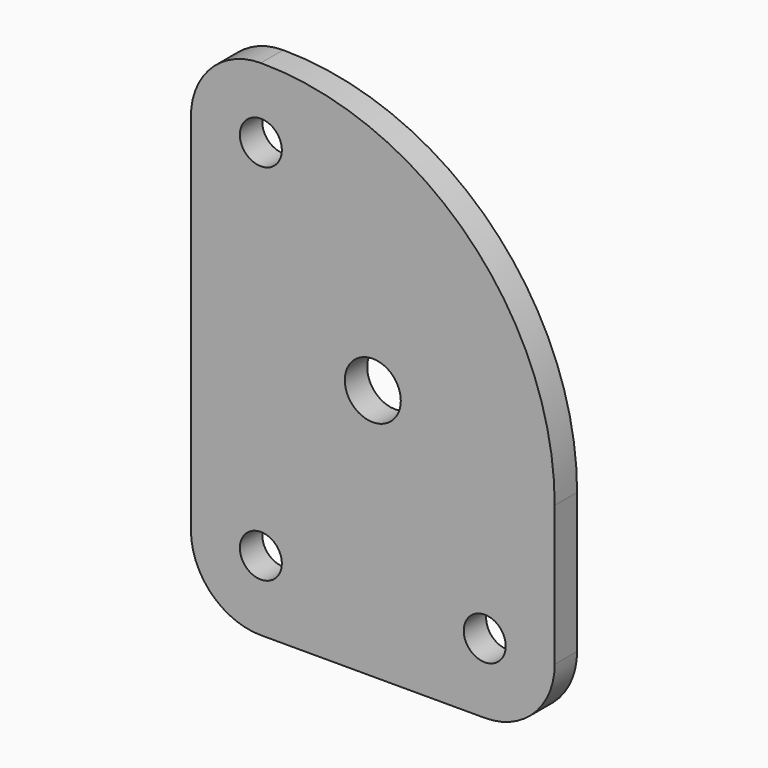
from build123d import *

# Parameters (mm, degrees)
F0_R     = 6.35
F0_R_2   = 4.7625
F1_DEPTH = 6.35


with BuildPart() as f1:
    # F0 (on Front) → F1 (new body)
    with BuildSketch(Plane.XZ):
        with BuildLine():
            ThreePointArc((-188.373449, 60.317115), (-177.148129, 55.667435), (-172.498449, 44.442115))
            ThreePointArc((-172.498449, 44.442115), (-188.26699, 28.567472), (-204.247021, 44.229202))
            Line((-204.247021, 44.229202), (-204.247021, -37.894971))
            ThreePointArc((-204.247021, -37.894971), (-188.26699, -22.233241), (-172.498449, -38.107884))
            ThreePointArc((-172.498449, -38.107884), (-177.148129, -49.333205), (-188.373449, -53.982884))
            Line((-188.373449, -53.982884), (-137.573449, -53.982884))
            ThreePointArc((-137.573449, -53.982884), (-148.798769, -26.882564), (-121.698449, -38.107884))
            Line((-121.698449, -38.107884), (-121.698449, -6.357885))
            ThreePointArc((-121.698449, -6.357885), (-141.227104, 40.78846), (-188.373449, 60.317115))
        make_face()
        with Locations((-162.973449, 3.167116)):
            Circle(F0_R, mode=Mode.SUBTRACT)
        with BuildLine():
            ThreePointArc((-172.498449, -38.107884), (-188.26699, -22.233241), (-204.247021, -37.894971))
            Line((-204.247021, -37.894971), (-204.247021, -38.320798))
            ThreePointArc((-204.247021, -38.320798), (-199.523239, -49.40823), (-188.373449, -53.982884))
            ThreePointArc((-188.373449, -53.982884), (-177.148129, -49.333205), (-172.498449, -38.107884))
        make_face()
        with Locations((-188.373449, -38.107884)):
            Circle(F0_R_2, mode=Mode.SUBTRACT)
        with BuildLine():
            ThreePointArc((-137.573449, -53.982884), (-126.348129, -49.333205), (-121.698449, -38.107884))
            ThreePointArc((-121.698449, -38.107884), (-148.798769, -26.882564), (-137.573449, -53.982884))
        make_face()
        with Locations((-137.573449, -38.107884)):
            Circle(F0_R_2, mode=Mode.SUBTRACT)
        with BuildLine():
            ThreePointArc((-204.247021, 44.229202), (-188.26699, 28.567472), (-172.498449, 44.442115))
            ThreePointArc((-172.498449, 44.442115), (-177.148129, 55.667435), (-188.373449, 60.317115))
            ThreePointArc((-188.373449, 60.317115), (-199.673795, 55.591905), (-204.247021, 44.229202))
        make_face()
        with Locations((-188.373449, 44.442115)):
            Circle(F0_R_2, mode=Mode.SUBTRACT)
    extrude(amount=F1_DEPTH)


solid = f1.part
